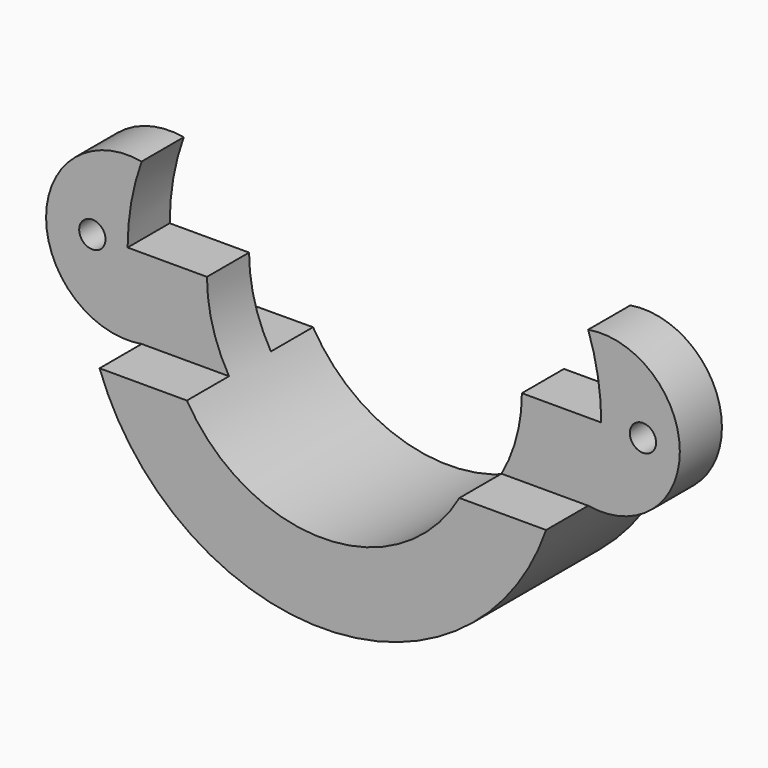
from build123d import *

# Parameters (mm, degrees)
F0_R     = 1.5875
F1_DEPTH = 19.05
F2_R     = 1.5875
F3_DEPTH = 6.35
F4_R     = 1.5875
F5_DEPTH = 6.35
F8_DEPTH = 151.92272


with BuildPart() as f1:
    # F0 (on Front) → F1 (new body)
    with BuildSketch(Plane.XZ):
        with BuildLine():
            ThreePointArc((3.2306237647, 27.0146857947), (-15.7693382353, 8.0147237947), (-34.7693002353, 27.0146857947))
            Line((-34.7693002353, 27.0146857947), (-44.3443382353, 27.0146857947))
            ThreePointArc((-44.3443382353, 27.0146857947), (-43.9176321109, 31.9344598635), (-42.6502576132, 36.7073014581))
            ThreePointArc((-42.6502576132, 36.7073014581), (-54.1838863729, 27.0146857947), (-42.6502576132, 17.3220701313))
            ThreePointArc((-42.6502576132, 17.3220701313), (-15.5884947503, -1.5597419447), (11.2321092838, 17.6630839601))
            ThreePointArc((11.2321092838, 17.6630839601), (22.288726896, 27.0146857947), (11.2321092838, 36.3662876293))
            ThreePointArc((11.2321092838, 36.3662876293), (12.4095278514, 31.7562183603), (12.8056617647, 27.0146857947))
            Line((12.8056617647, 27.0146857947), (3.2306237647, 27.0146857947))
        make_face()
        with Locations((-48.6005805433, 27.0146857947)):
            Circle(F0_R, mode=Mode.SUBTRACT)
        with Locations((17.8374499083, 27.0146857947)):
            Circle(F0_R, mode=Mode.SUBTRACT)
    extrude(amount=F1_DEPTH)

    # F2 (on face) → F3 (cut)
    with BuildSketch(Plane.XZ.offset(19.05)):
        with BuildLine():
            ThreePointArc((-42.6502576132, 36.7073014581), (-54.1838863729, 27.0146857947), (-42.6502576132, 17.3220701313))
            Line((-42.6502576132, 17.3220701313), (-32.1110565538, 17.3220701313))
            ThreePointArc((-32.1110565538, 17.3220701313), (-34.0926919549, 21.989423168), (-34.7693002353, 27.0146857947))
            Line((-34.7693002353, 27.0146857947), (-44.3443382353, 27.0146857947))
            ThreePointArc((-44.3443382353, 27.0146857947), (-43.9176321109, 31.9344598635), (-42.6502576132, 36.7073014581))
        make_face()
        with Locations((-48.6005805433, 27.0146857947)):
            Circle(F2_R, mode=Mode.SUBTRACT)
        with BuildLine():
            Line((0.7698908619, 17.6630839601), (11.2321092838, 17.6630839601))
            ThreePointArc((11.2321092838, 17.6630839601), (22.288726896, 27.0146857947), (11.2321092838, 36.3662876293))
            ThreePointArc((11.2321092838, 36.3662876293), (12.4095278514, 31.7562183603), (12.8056617647, 27.0146857947))
            Line((12.8056617647, 27.0146857947), (3.2306237647, 27.0146857947))
            ThreePointArc((3.2306237647, 27.0146857947), (2.6051451637, 22.1797177676), (0.7698908619, 17.6630839601))
        make_face()
        with Locations((17.8374499083, 27.0146857947)):
            Circle(F2_R, mode=Mode.SUBTRACT)
    extrude(amount=-F3_DEPTH, mode=Mode.SUBTRACT)

    # F4 (on face) → F5 (cut)
    with BuildSketch(Plane(origin=(0, 0, 0), x_dir=(-1, 0, 0), z_dir=(0, 1, 0))):
        with BuildLine():
            ThreePointArc((-11.2321092838, 36.3662876293), (-22.288726896, 27.0146857947), (-11.2321092838, 17.6630839601))
            Line((-11.2321092838, 17.6630839601), (-0.7698908619, 17.6630839601))
            ThreePointArc((-0.7698908619, 17.6630839601), (-2.6051451637, 22.1797177676), (-3.2306237647, 27.0146857947))
            Line((-3.2306237647, 27.0146857947), (-12.8056617647, 27.0146857947))
            ThreePointArc((-12.8056617647, 27.0146857947), (-12.4095278514, 31.7562183603), (-11.2321092838, 36.3662876293))
        make_face()
        with Locations((-17.8374499083, 27.0146857947)):
            Circle(F4_R, mode=Mode.SUBTRACT)
        with BuildLine():
            Line((32.134551767, 17.3617928572), (42.6502576132, 17.3220701313))
            ThreePointArc((42.6502576132, 17.3220701313), (54.1838863729, 27.0146857947), (42.6502576132, 36.7073014581))
            ThreePointArc((42.6502576132, 36.7073014581), (43.9176321109, 31.9344598635), (44.3443382353, 27.0146857947))
            Line((44.3443382353, 27.0146857947), (34.7693002353, 27.0146857947))
            ThreePointArc((34.7693002353, 27.0146857947), (34.0987816423, 22.011680659), (32.134551767, 17.3617928572))
        make_face()
        with Locations((48.6005805433, 27.0146857947)):
            Circle(F4_R, mode=Mode.SUBTRACT)
    extrude(amount=-F5_DEPTH, mode=Mode.SUBTRACT)

    # F7 (on offset) → F8 (cut)
    with BuildSketch(Plane(origin=(-0.6417229615, 0, 169.8818432743), x_dir=(0.9999928655, 0, 0.0037774395), z_dir=(-0.0037774395, 0, 0.9999928655))):
        Polygon((2.4513369426, -5.8165588416), (-31.672719866, -5.8165588416), (-31.3653349876, -12.5274714082), (2.4513369426, -12.5274714082), align=None)
    extrude(amount=-F8_DEPTH, mode=Mode.SUBTRACT)


solid = f1.part
